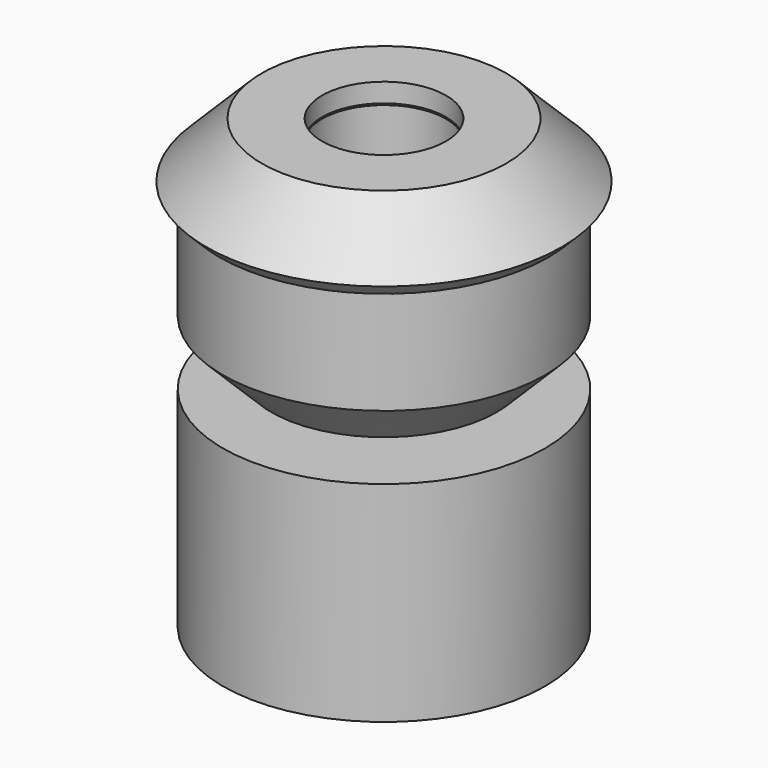
from build123d import *

# Parameters (mm, degrees)
F0_W = 7.8105
F0_H = 16.51


with BuildPart() as f1:
    # F0 (on Front) → F1 (revolve)
    with BuildSketch(Plane.XZ):
        with Locations((8.79475, -9.525)):
            Rectangle(F0_W, F0_H)
        Polygon((4.8895, 15.875), (4.8895, 0), (8.89, 0), (12.7, 3.81), (12.7, 12.065), (8.89, 15.875), align=None)
        Polygon((4.8895, 17.5006), (4.8895, 16.002), (9.017, 16.002), (12.954, 12.065), (14.01367, 13.12467), (9.63774, 17.5006), align=None)
    revolve(axis=Axis((0, 0, -1.127228), (0, 0, 1)))


solid = f1.part
